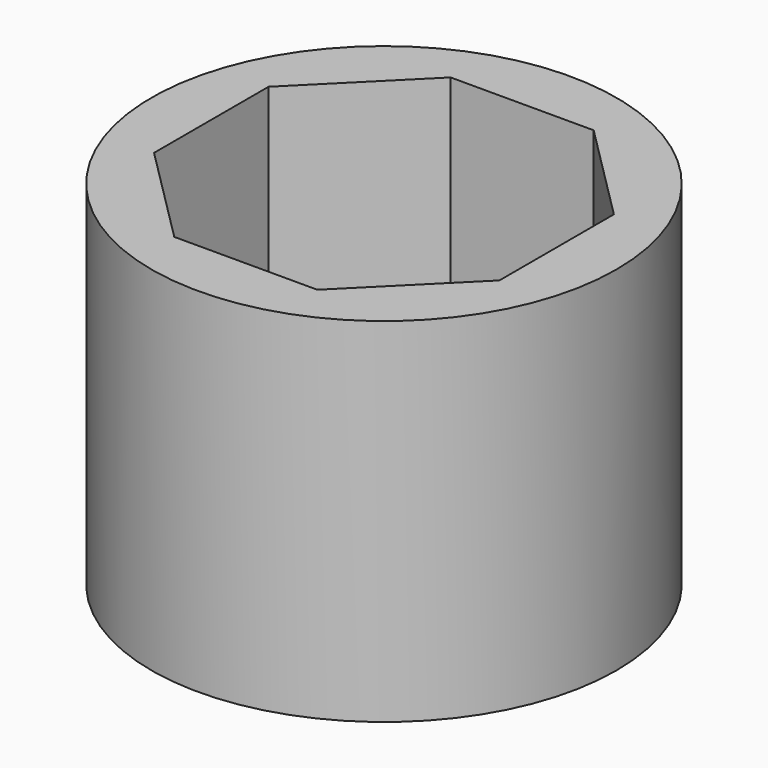
from build123d import *

# Parameters (mm, degrees)
F0_R     = 40.160113
F1_DEPTH = 60.96
F3_DEPTH = 183.896


with BuildPart() as f1:
    # F0 (on Top) → F1 (new body)
    with BuildSketch(Plane.XY):
        Circle(F0_R)
    extrude(amount=F1_DEPTH)

    # F2 (on face) → F3 (cut)
    with BuildSketch(Plane.XY.offset(60.96)):
        Polygon((-12.354089, -29.82541), (12.354089, -29.82541), (29.82541, -12.354089), (29.82541, 12.354089), (12.354089, 29.82541), (-12.354089, 29.82541), (-29.82541, 12.354089), (-29.82541, -12.354089), align=None)
    extrude(amount=-F3_DEPTH, mode=Mode.SUBTRACT)


solid = f1.part
